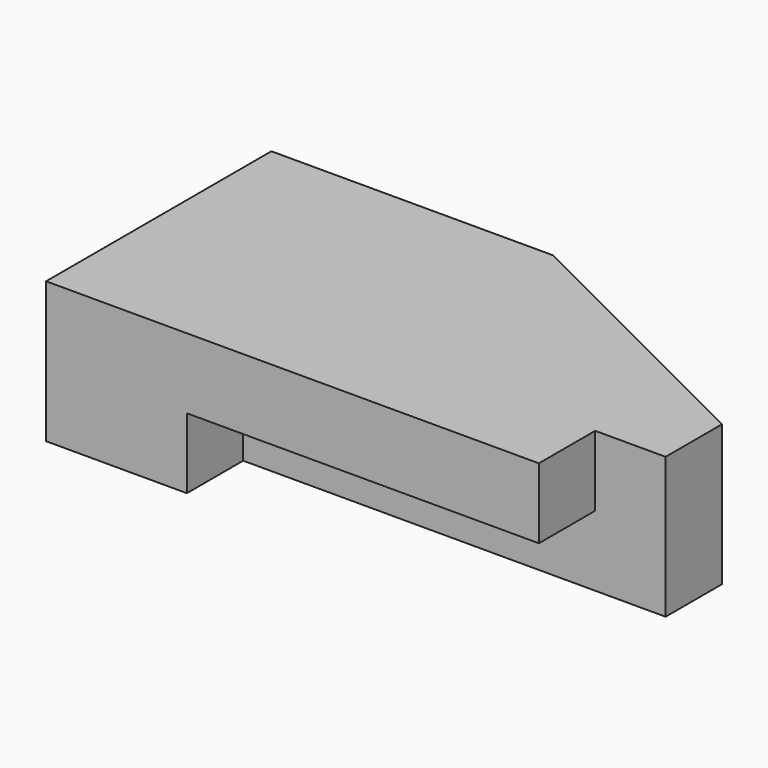
from build123d import *

# Parameters (mm, degrees)
F1_DEPTH = 12.7
F3_DEPTH = 12.7
F4_R     = 6.35
F5_DEPTH = 12.7
F7_DEPTH = 2.54
F7_TAPER = 45


with BuildPart() as f1:
    # F0 (on Top) → F1 (new body)
    with BuildSketch(Plane.XY):
        Polygon((-40.7569743693, 40.2890797282), (-40.7569743693, -10.5109202718), (48.1430256307, -10.5109202718), (48.1430256307, 2.1890797282), (60.8430256307, 2.1890797282), (60.8430256307, 14.8890797282), (10.0430256307, 40.2890797282), align=None)
    extrude(amount=F1_DEPTH)

    # F2 (on face) → F3 (join)
    with BuildSketch(Plane.XY.offset(12.7)):
        Polygon((-40.7569743693, 40.2890797282), (-40.7569743693, -10.5109202718), (-15.3569743693, -10.5109202718), (-15.3569743693, 2.1890797282), (48.1430256307, 2.1890797282), (60.8430256307, 2.1890797282), (60.8430256307, 14.8890797282), (10.0430256307, 40.2890797282), align=None)
    extrude(amount=F3_DEPTH)

    # F4 (on face) → F5 (cut)
    with BuildSketch(Plane.XY.offset(25.4)):
        with Locations((-28.0569743693, 2.1890797282)):
            Circle(F4_R)
    extrude(amount=-F5_DEPTH, mode=Mode.SUBTRACT)

    # F6 (on face) → F7 (cut)
    with BuildSketch(Plane.XY.offset(25.4)):
        Polygon((22.7430256307, 14.8890797282), (35.4430256307, 14.8890797282), (35.4430256307, 27.5890797282), (22.7430256307, 33.9390797282), align=None)
    extrude(amount=-F7_DEPTH, taper=F7_TAPER, mode=Mode.SUBTRACT)


with BuildPart() as f8_1:
    # F8: instance of F1
    add(f1.part.mirror(Plane(origin=(3.3794453838, 13.0859933084, 0), x_dir=(1, 0, 0), z_dir=(0, 0, -1))))


solid = f8_1.part
